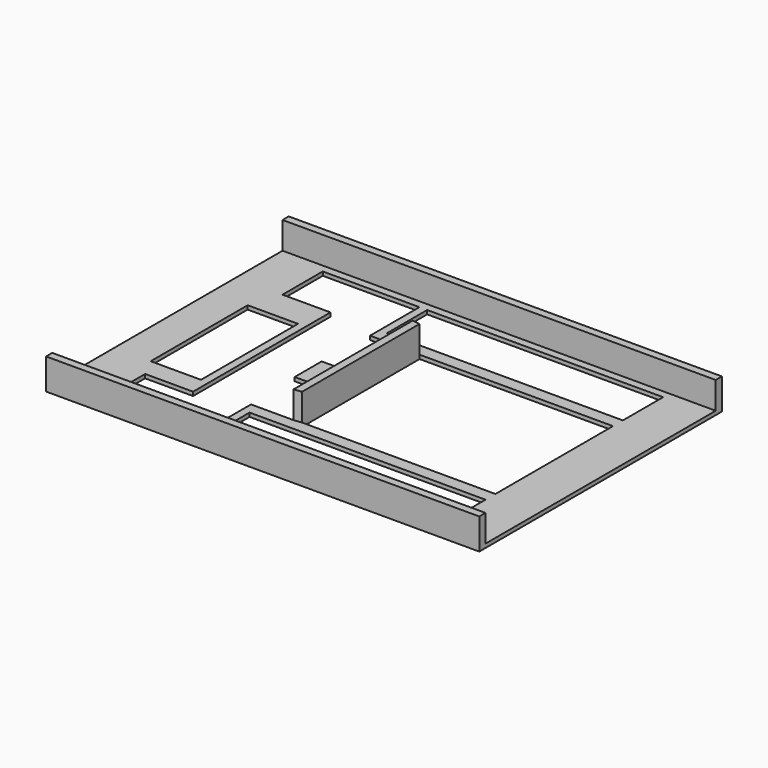
from build123d import *

# Parameters (mm, degrees)
F0_W     = 18.415
F0_H     = 13.843
F1_DEPTH = 1.5875
F0_W_2   = 20.6502
F0_H_2   = 49.7587174177
F0_W_3   = 177.8
F0_H_3   = 3.175
F2_DEPTH = 12.7


with BuildPart() as f1:
    # F0 (on Top) → F1 (new body)
    with BuildSketch(Plane.XY):
        with Locations((9.8425, 1.0799015641)):
            Rectangle(F0_W, F0_H)
    extrude(amount=F1_DEPTH)



with BuildPart() as f1b:
    # F0 (on Top) → F1, piece 2 (new body)
    with BuildSketch(Plane.XY):
        Polygon((120.65, -54.8127984359), (120.65, 56.9726015641), (101.6, 56.9726015641), (101.6, 36.3224015641), (4.7498, 36.3224015641), (4.7498, 56.9726015641), (1.5748, 56.9726015641), (1.5748, 33.1474015641), (1.5748, 31.6234015641), (19.05, 31.6234015641), (22.225, 31.2424015641), (101.6, 31.2424015641), (101.6, -29.0825984359), (22.225, -29.0825984359), (19.05, -29.4635984359), (1.6357024433, -29.4635984359), (1.5875, -34.1625984359), (1.5875, -54.8127984359), (4.7625, -54.8127984359), (4.7625, -34.1625984359), (101.6, -34.1625984359), (101.6, -54.8127984359), align=None)
        Polygon((-38.1, 56.9726015641), (-57.15, 56.9726015641), (-57.15, -54.8127984359), (-38.1, -54.8127984359), (-38.1, -34.1625984359), (-18.415, -34.1625984359), (-18.415, 36.3224015641), (-38.1, 36.3224015641), align=None)
        with Locations((-31.9151, -1.256839727)):
            Rectangle(F0_W_2, F0_H_2, mode=Mode.SUBTRACT)
        Polygon((-38.1, -54.8127984359), (-57.15, -54.8127984359), (-57.15, -57.9877984359), (120.65, -57.9877984359), (120.65, -54.8127984359), (101.6, -54.8127984359), (4.7625, -54.8127984359), (1.5875, -54.8127984359), align=None)
        Polygon((120.65, 60.1476015641), (-57.15, 60.1476015641), (-57.15, 56.9726015641), (-38.1, 56.9726015641), (1.5748, 56.9726015641), (4.7498, 56.9726015641), (101.6, 56.9726015641), (120.65, 56.9726015641), align=None)
    extrude(amount=F1_DEPTH)


with BuildPart() as f1_1:
    add(f1.part)

    add(f1b.part)  # F2 merges F1b
    # F0 (on Top) → F2 (join)
    with BuildSketch(Plane.XY):
        Polygon((22.225, 31.2424015641), (19.05, 31.6234015641), (19.05, 8.0014015641), (19.05, -5.8415984359), (19.05, -29.4635984359), (22.225, -29.0825984359), align=None)
        with Locations((31.75, -59.5752984359)):
            Rectangle(F0_W_3, F0_H_3)
        with Locations((31.75, 61.7351015641)):
            Rectangle(F0_W_3, F0_H_3)
    extrude(amount=F2_DEPTH)


solid = f1_1.part
